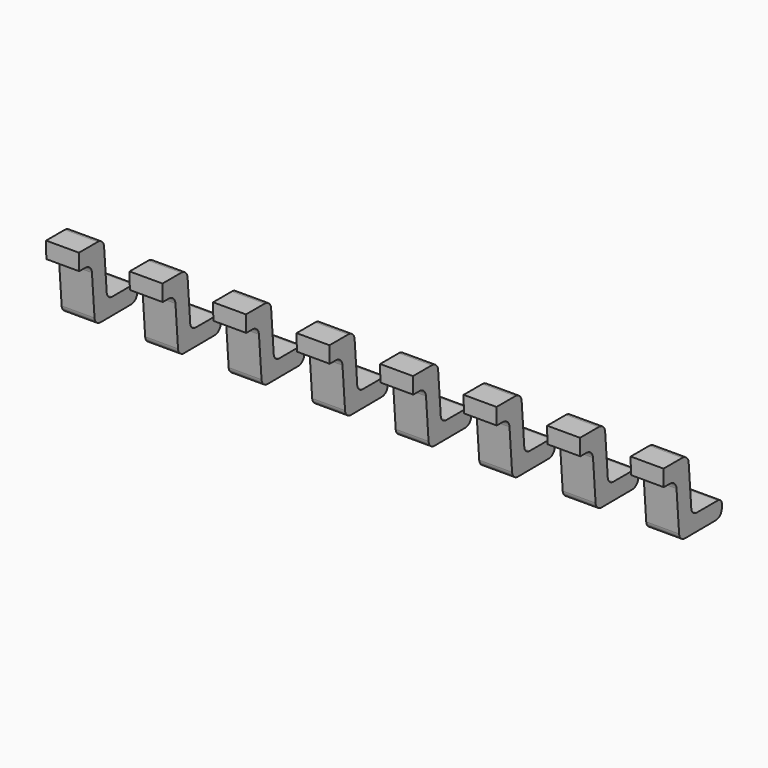
from build123d import *

# Parameters (mm, degrees)
PAD_DEPTH      = 0.25
PAD_DEPTH_BACK = 0.25
ARRAY_X_COUNT  = 8
ARRAY_X_PITCH  = 1.27


with BuildPart() as array:
    # Sketch → Pad (new body, two sides)
    with BuildSketch(Plane.YZ) as pad_sk:
        with BuildLine():
            Line((-2.405827, 0.000634), (-2.989983, 0.004132))
            ThreePointArc((-2.989983, 0.004132), (-3.069117, 0.036544), (-3.103717, 0.114747))
            Line((-3.103717, 0.114747), (-3.105693, 0.173218))
            ThreePointArc((-3.105693, 0.173218), (-3.08356, 0.230722), (-3.026831, 0.25477))
            Line((-3.026831, 0.25477), (-2.627003, 0.254667))
            ThreePointArc((-2.627003, 0.254667), (-2.556433, 0.282283), (-2.523388, 0.350479))
            Line((-2.523388, 0.350479), (-2.473563, 0.988433))
            ThreePointArc((-2.473563, 0.988433), (-2.435096, 1.067832), (-2.352942, 1.1))
            Line((-2.352942, 1.1), (-1.995863, 1.1))
            Line((-1.995863, 1.1), (-2, 0.85))
            Line((-2, 0.85), (-2.116696, 0.849652))
            ThreePointArc((-2.116696, 0.849652), (-2.202586, 0.815799), (-2.242776, 0.732686))
            Line((-2.242776, 0.732686), (-2.29176, 0.105508))
            ThreePointArc((-2.29176, 0.105508), (-2.32817, 0.03064), (-2.405827, 0.000634))
        make_face()
    extrude(amount=PAD_DEPTH)
    extrude(pad_sk.sketch, amount=-PAD_DEPTH_BACK)

    # Array X: Array ×8


with BuildPart() as array_1:
    add(array.part)
    with Locations(*[(i * ARRAY_X_PITCH, 0, 0) for i in range(1, ARRAY_X_COUNT)]):
        add(array.part)


with BuildPart() as array_2:
    # Array placement: moved
    add(array_1.part.moved(Location((-4.445, 0, 0))))


with BuildPart() as part_mirroring:
    # Part__Mirroring: instance of Array
    add(array_2.part.mirror(Plane(origin=(0, 0, 0), x_dir=(1, 0, 0), z_dir=(0, 1, 0))))


solid = part_mirroring.part
